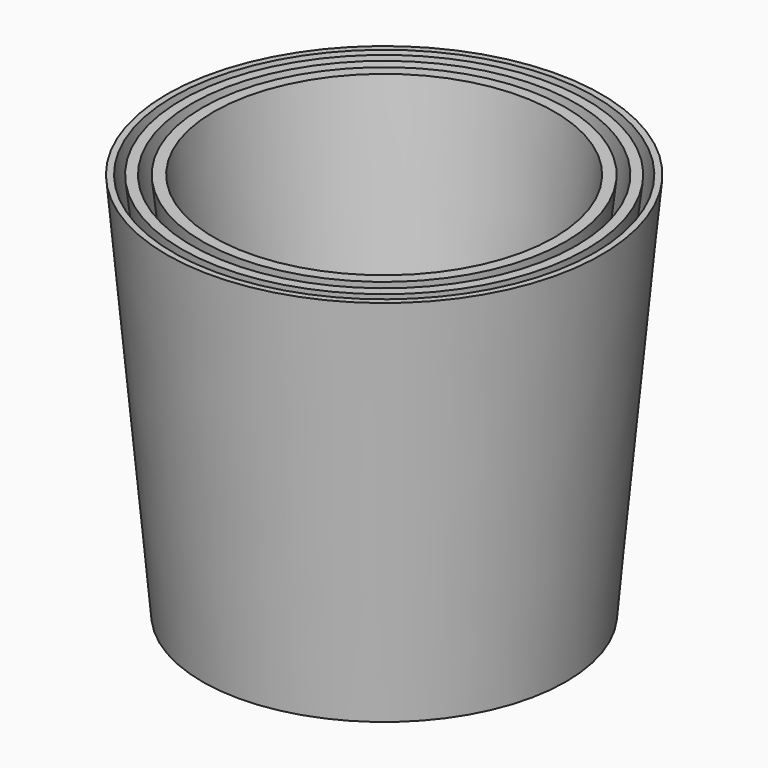
from build123d import *

# Parameters (mm, degrees)
F3_R      = 15.581224
F4_DEPTH  = 12.7
F5_W      = 40.64
F5_H      = 12.7
F6_DEPTH  = 12.7
F11_R     = 6.984379
F11_R_2   = 6.131356
F11_R_3   = 6.231492
F12_DEPTH = 12.7


with BuildPart() as f1:
    # F0 (on Front) → F1 (revolve)
    with BuildSketch(Plane.XZ):
        Polygon((-62.095214, 64.022034), (-51.98195, -46.63299), (0, -46.63299), (0, 64.022034), align=None)
    revolve(axis=Axis((0, 0, 8.694522), (0, 0, -1)))

    # F3 (on offset) → F4 (cut)
    with BuildSketch(Plane(origin=(0, 0, -46.63299), x_dir=(1, 0, 0), z_dir=(0, 0, -1))):
        Circle(F3_R)
    extrude(amount=-F4_DEPTH, mode=Mode.SUBTRACT)

    # F5 (on Front) → F6 (cut, symmetric)
    with BuildSketch(Plane.XZ):
        with Locations((0, -20.389645)):
            Rectangle(F5_W, F5_H)
    extrude(amount=F6_DEPTH, both=True, mode=Mode.SUBTRACT)

    # F7 (on Front) → F8 (revolve, cut)
    with BuildSketch(Plane.XZ):
        Polygon((49.167432, 68.782791), (0, 68.782791), (0, 0), (41.682635, 0), align=None)
    revolve(axis=Axis((0, 0, 34.391396), (0, 0, 1)), mode=Mode.SUBTRACT)

    # F9 (on Front) → F10 (revolve, cut)
    with BuildSketch(Plane.XZ):
        Polygon((40.650241, -38.069274), (15.356758, -38.069274), (0, -38.069274), (0, -41.860752), (15.356758, -41.860752), (43.30195, -41.860752), (55.038585, 64.83591), (52.006502, 65.169439), align=None)
    revolve(axis=Axis((0, 0, -39.965013), (0, 0, 1)), mode=Mode.SUBTRACT)

    # F11 (on face) → F12 (cut)
    with BuildSketch(Plane(origin=(0, 0, -33.93299), x_dir=(1, 0, 0), z_dir=(0, 0, -1))):
        with Locations((-7.762729, 0)):
            Circle(F11_R)
        with Locations((-7.762729, 0)):
            Circle(F11_R_2, mode=Mode.SUBTRACT)
        with Locations((7.195836, 0)):
            Circle(F11_R)
        with Locations((7.195836, 0)):
            Circle(F11_R_3, mode=Mode.SUBTRACT)
    extrude(amount=-F12_DEPTH, mode=Mode.SUBTRACT)

    # F13 (on Front) → F14 (revolve, cut)
    with BuildSketch(Plane.XZ):
        Polygon((60.373548, 64.889178), (57.893332, 64.660862), (45.453575, -43.409597), (0, -43.409597), (0, -45.505837), (49.22067, -45.505837), align=None)
    revolve(axis=Axis((0, 0, -44.457717), (0, 0, -1)), mode=Mode.SUBTRACT)


solid = f1.part
